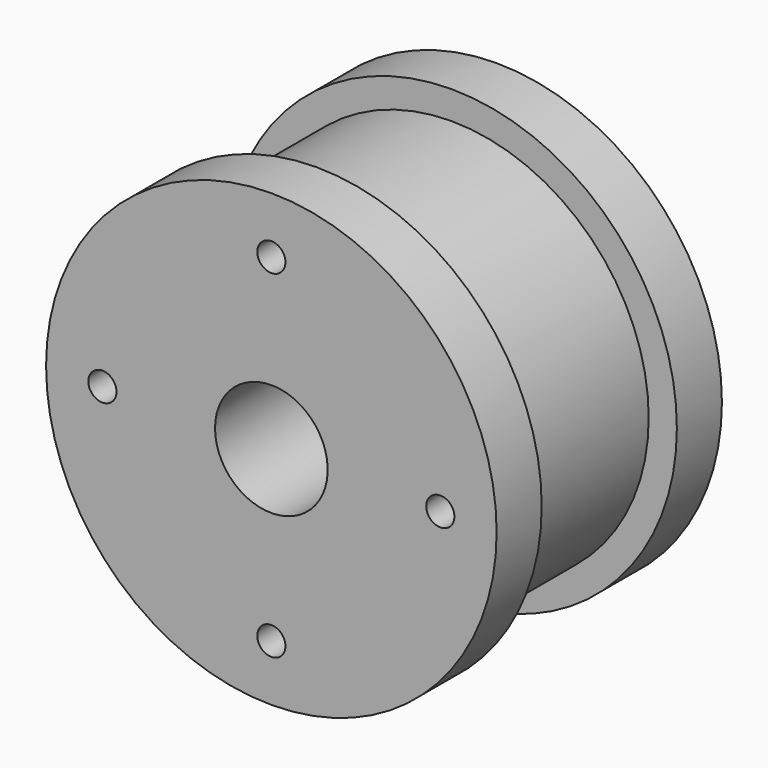
from build123d import *

# Parameters (mm, degrees)
F0_R     = 25.4
F1_DEPTH = 6.35
F3_R     = 22.225
F4_DEPTH = 19.05
F5_R     = 25.4
F6_DEPTH = 6.35
F8_D     = 3.175
F9_D     = 12.7


with BuildPart() as f1:
    # F0 (on Front) → F1 (new body)
    with BuildSketch(Plane.XZ):
        with Locations((0.658478, 0)):
            Circle(F0_R)
    extrude(amount=F1_DEPTH)

    # F3 (on face) → F4 (join)
    with BuildSketch(Plane(origin=(0, 0, 0), x_dir=(-1, 0, 0), z_dir=(0, 1, 0))):
        with Locations((-0.658478, 0)):
            Circle(F3_R)
    extrude(amount=F4_DEPTH)

    # F5 (on face) → F6 (join)
    with BuildSketch(Plane(origin=(0, 19.05, 0), x_dir=(-1, 0, 0), z_dir=(0, 1, 0))):
        with Locations((-0.658478, 0)):
            Circle(F5_R)
    extrude(amount=F6_DEPTH)

    # F8 (through all)
    with Locations(Plane.XZ.offset(6.35)):
        with Locations((0.658478, 19.05), (19.708478, 0), (0.658478, -19.05), (-18.391522, 0)):
            Hole(F8_D / 2)

    # F9 (through all)
    with Locations(Plane.XZ.offset(6.35)):
        with Locations((0.658478, 0)):
            Hole(F9_D / 2)


solid = f1.part
